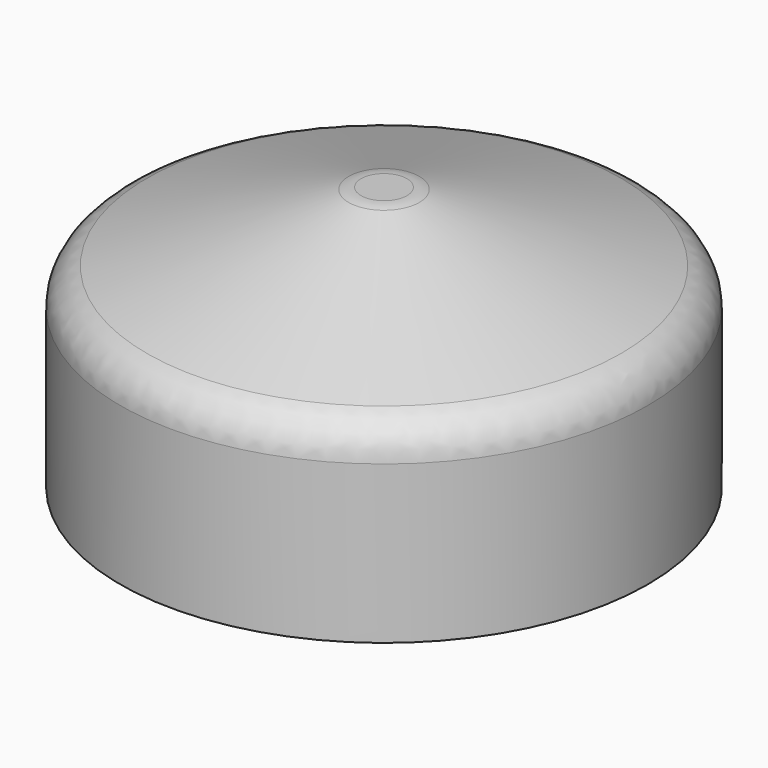
from build123d import *

# Parameters (mm, degrees)
CYLINDER006_R     = 1350
CYLINDER006_DEPTH = 1350
CHAMFER002_SIZE2  = 1200
CHAMFER002_SIZE   = 400
FILLET003_R       = 200


with BuildPart() as part:
    # Cylinder006 → Cylinder006 (new body)
    with BuildSketch(Plane.XY):
        Circle(CYLINDER006_R)
    extrude(amount=CYLINDER006_DEPTH)

    # Chamfer002
    chamfer002_edges = [part.edges().sort_by_distance(p)[0] for p in [
        (-1350, 0, 1350),
    ]]
    chamfer002_side = part.faces().sort_by_distance((-1350, 0, 675))[0]
    chamfer(chamfer002_edges, length=CHAMFER002_SIZE, length2=CHAMFER002_SIZE2, reference=chamfer002_side)

    # Fillet003
    fillet003_edges = [part.edges().sort_by_distance(p)[0] for p in [
        (-1350, 0, 950),
        (-150, 0, 1350),
    ]]
    fillet(fillet003_edges, radius=FILLET003_R)


with BuildPart() as part_1:
    # Fillet003 placement: moved
    add(part.part.moved(Location((0, 0, -23000))))


solid = part_1.part
